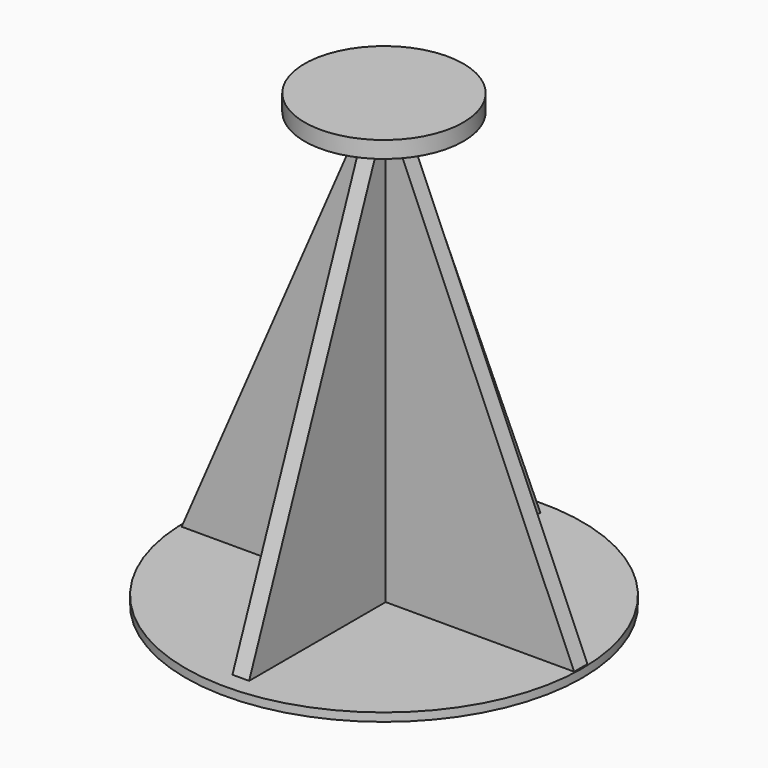
from build123d import *

# Parameters (mm, degrees)
F3_DEPTH = 0.5
F4_DEPTH = 0.5
F2_R     = 11.884128
F5_DEPTH = 0.5
F6_R     = 4.759852
F7_DEPTH = 1


with BuildPart() as f3:
    # F0 (on Front) → F3 (new body, symmetric)
    with BuildSketch(Plane.XZ):
        Polygon((0.76961, 25.458554), (-0.685163, 25.458554), (-11.722775, 0), (11.791914, 0), align=None)
    extrude(amount=F3_DEPTH, both=True)

    # F1 (on Right) → F4 (join, symmetric)
    with BuildSketch(Plane.YZ):
        Polygon((0, 25.482798), (-0.616243, 25.482798), (-10.725138, 0), (0, 0), (11.086991, 0), (0.637034, 25.482798), align=None)
    extrude(amount=F4_DEPTH, both=True)

    # F2 (on Top) → F5 (join)
    with BuildSketch(Plane.XY):
        Circle(F2_R)
    extrude(amount=-F5_DEPTH)

    # F6 (on face) → F7 (join)
    with BuildSketch(Plane.XY.offset(25.482798)):
        Circle(F6_R)
    extrude(amount=F7_DEPTH)


solid = f3.part
